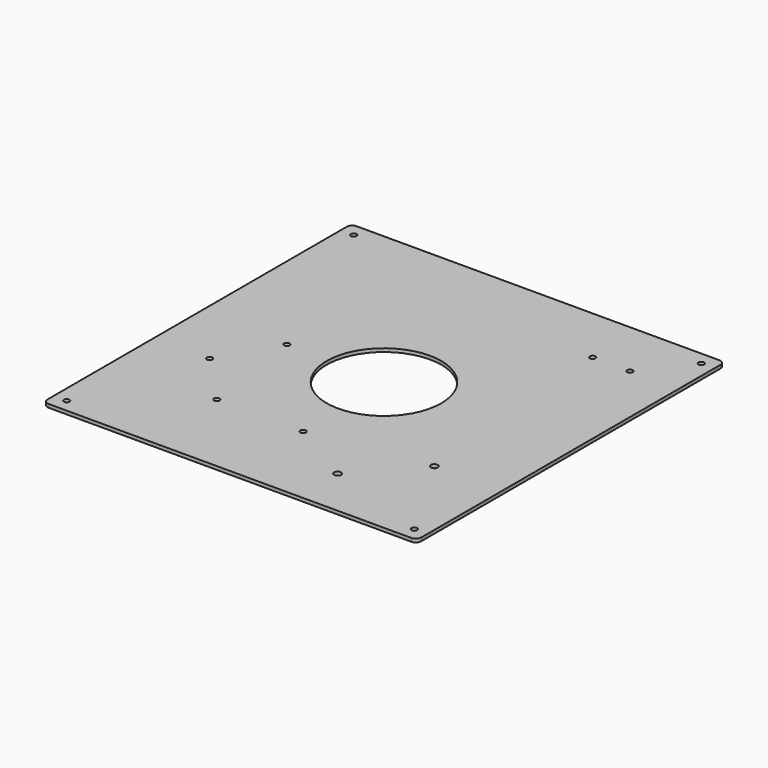
from build123d import *

# Parameters (mm, degrees)
F0_R     = 1.5
F0_R_2   = 1.875
F0_R_3   = 30.655696
F1_DEPTH = 1.8


with BuildPart() as f1:
    # F0 (on Top) → F1 (new body)
    with BuildSketch(Plane.XY):
        with BuildLine():
            Line((-97, -103), (97, -103))
            ThreePointArc((97, -103), (99.12132, -102.12132), (100, -100))
            Line((100, -100), (100, 100))
            ThreePointArc((100, 100), (99.12132, 102.12132), (97, 103))
            Line((97, 103), (-97, 103))
            ThreePointArc((-97, 103), (-99.12132, 102.12132), (-100, 100))
            Line((-100, 100), (-100, -100))
            ThreePointArc((-100, -100), (-99.12132, -102.12132), (-97, -103))
        make_face()
        with Locations((-93, -96)):
            Circle(F0_R, mode=Mode.SUBTRACT)
        with Locations((-44.679827, -55.97426)):
            Circle(F0_R, mode=Mode.SUBTRACT)
        with Locations((-70.170738, -28.904166)):
            Circle(F0_R, mode=Mode.SUBTRACT)
        with Locations((1.534493, -55.97426)):
            Circle(F0_R, mode=Mode.SUBTRACT)
        with Locations((36.597655, -76.814453)):
            Circle(F0_R_2, mode=Mode.SUBTRACT)
        with Locations((93, -96)):
            Circle(F0_R, mode=Mode.SUBTRACT)
        with Locations((63.986658, -46.327428)):
            Circle(F0_R_2, mode=Mode.SUBTRACT)
        with Locations((-52.970738, 1.295834)):
            Circle(F0_R, mode=Mode.SUBTRACT)
        with Locations((-93, 96)):
            Circle(F0_R, mode=Mode.SUBTRACT)
        Circle(F0_R_3, mode=Mode.SUBTRACT)
        with Locations((54.080207, 71.992084)):
            Circle(F0_R, mode=Mode.SUBTRACT)
        with Locations((74.080207, 71.992084)):
            Circle(F0_R, mode=Mode.SUBTRACT)
        with Locations((93, 96)):
            Circle(F0_R, mode=Mode.SUBTRACT)
    extrude(amount=F1_DEPTH)


solid = f1.part
